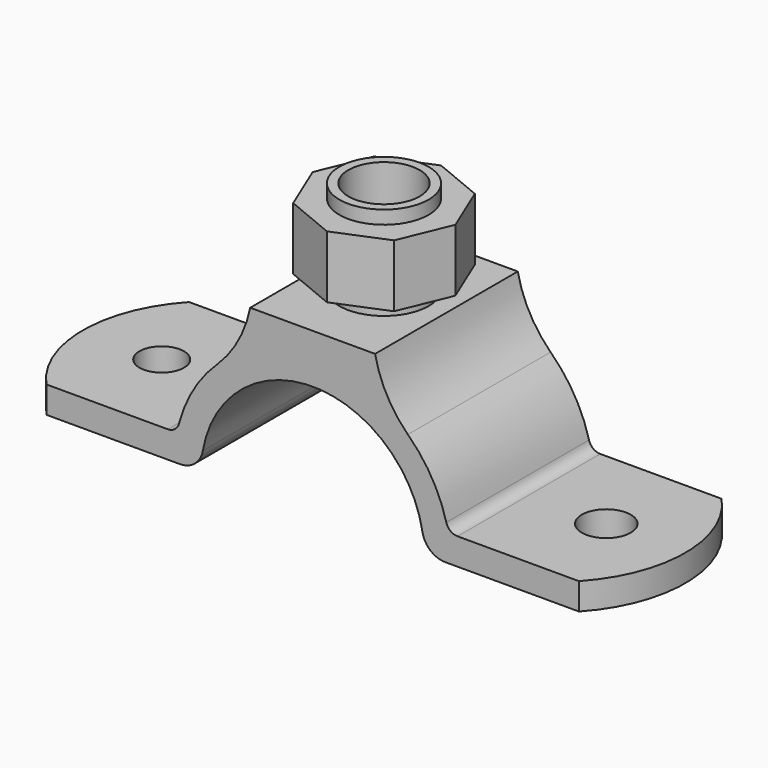
from build123d import *

# Parameters (mm, degrees)
F1_DEPTH  = 10
F2_R      = 2.5
F2_R_2    = 2.7424095939
F3_DEPTH  = 25
F5_DEPTH  = 3
F7_DEPTH  = 3
F8_R      = 5
F9_DEPTH  = 2
F11_DEPTH = 7
F12_R     = 5
F12_R_2   = 4
F13_DEPTH = 1.5
F14_DEPTH = 11


with BuildPart() as f1:
    # F0 (on Front) → F1 (new body, symmetric)
    with BuildSketch(Plane.XZ):
        with BuildLine():
            ThreePointArc((-12.3133069376, 2.1523178808), (0, 12.5), (12.3133069376, 2.1523178808))
            ThreePointArc((12.3133069376, 2.1523178808), (13.2017484895, 0.6095259974), (14.8744747806, 0))
            Line((14.8744747806, 0), (29.85, 0))
            Line((29.85, 0), (29.85, 3))
            Line((29.85, 3), (16.2403817689, 3))
            ThreePointArc((16.2403817689, 3), (15.4474629596, 3.2698156661), (14.9836855606, 3.9672619048))
            ThreePointArc((14.9836855606, 3.9672619048), (13.3355324821, 7.9002261625), (10.6780077367, 11.2352192135))
            ThreePointArc((10.6780077367, 11.2352192135), (8.326658054, 14.3390474584), (7, 18))
            Line((7, 18), (-7, 18))
            ThreePointArc((-7, 18), (-8.326658054, 14.3390474584), (-10.6780077367, 11.2352192135))
            ThreePointArc((-10.6780077367, 11.2352192135), (-13.3355324821, 7.9002261625), (-14.9836855606, 3.9672619048))
            ThreePointArc((-14.9836855606, 3.9672619048), (-15.4474629596, 3.2698156661), (-16.2403817689, 3))
            Line((-16.2403817689, 3), (-29.85, 3))
            Line((-29.85, 3), (-29.85, 0))
            Line((-29.85, 0), (-14.8744747806, 0))
            ThreePointArc((-14.8744747806, 0), (-13.2017484895, 0.6095259974), (-12.3133069376, 2.1523178808))
        make_face()
    extrude(amount=F1_DEPTH, both=True)

    # F2 (on face) → F3 (cut)
    with BuildSketch(Plane.XY.offset(3)):
        with Locations((-24.92, 0)):
            Circle(F2_R)
        with Locations((24.92, 0)):
            Circle(F2_R_2)
    extrude(amount=-F3_DEPTH, mode=Mode.SUBTRACT)

    # F4 (on face) → F5 (join)
    with BuildSketch(Plane.XY.offset(3)):
        with BuildLine():
            Line((-29.85, -10), (-29.85, 10))
            ThreePointArc((-29.85, 10), (-33.7754930507, 0), (-29.85, -10))
        make_face()
    extrude(amount=-F5_DEPTH)

    # F6 (on face) → F7 (join)
    with BuildSketch(Plane.XY.offset(3)):
        with BuildLine():
            Line((29.85, 10), (29.85, -10))
            ThreePointArc((29.85, -10), (33.7754930507, 0), (29.85, 10))
        make_face()
    extrude(amount=-F7_DEPTH)

    # F8 (on face) → F9 (join)
    with BuildSketch(Plane.XY.offset(18)):
        Circle(F8_R)
    extrude(amount=F9_DEPTH)

    # F10 (on face) → F11 (join)
    with BuildSketch(Plane.XY.offset(20)):
        Polygon((5.6568542495, 5.6568542495), (0, 8), (-5.6568542495, 5.6568542495), (-8, 0), (-5.6568542495, -5.6568542495), (0, -8), (5.6568542495, -5.6568542495), (8, 0), align=None)
    extrude(amount=F11_DEPTH)

    # F12 (on face) → F13 (join)
    with BuildSketch(Plane.XY.offset(27)):
        Circle(F12_R)
        Circle(F12_R_2, mode=Mode.SUBTRACT)
    extrude(amount=F13_DEPTH)

    # F14 (cut): a face of the model
    f14_faces = [f1.faces().sort_by_distance(p)[0] for p in [
        (0, 0, 27),
    ]]
    extrude(f14_faces, amount=-F14_DEPTH, mode=Mode.SUBTRACT)


solid = f1.part
